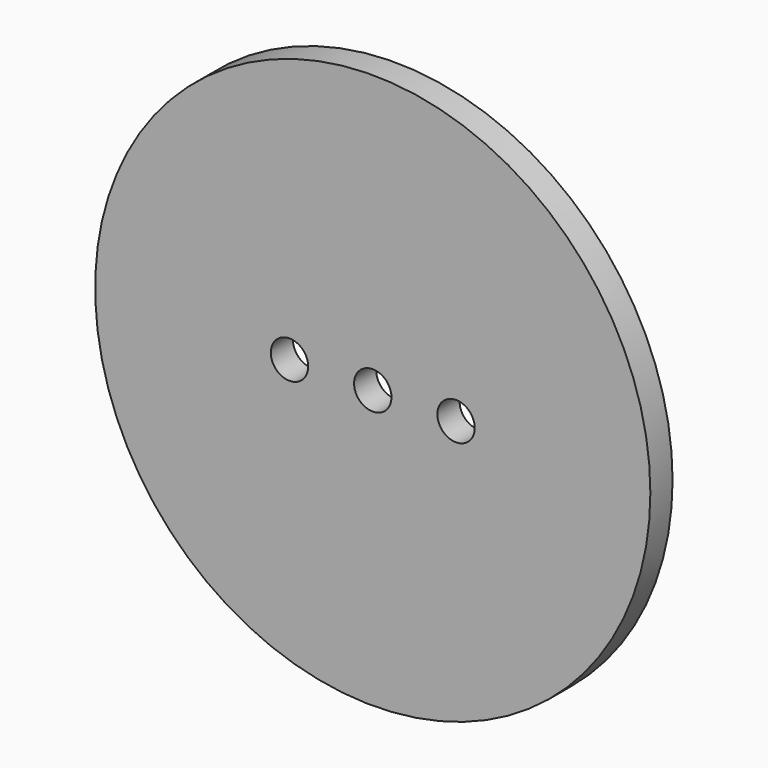
from build123d import *

# Parameters (mm, degrees)
F0_R     = 95.25
F0_R_2   = 6.4135
F1_DEPTH = 9.525


with BuildPart() as f1:
    # F0 (on Front) → F1 (new body)
    with BuildSketch(Plane.XZ):
        with Locations((-27.889683, 17.466443)):
            Circle(F0_R)
        with Locations((-56.464683, 17.466443)):
            Circle(F0_R_2, mode=Mode.SUBTRACT)
        with Locations((-27.889683, 17.466443)):
            Circle(F0_R_2, mode=Mode.SUBTRACT)
        with Locations((0.685317, 17.466443)):
            Circle(F0_R_2, mode=Mode.SUBTRACT)
    extrude(amount=F1_DEPTH)


solid = f1.part
